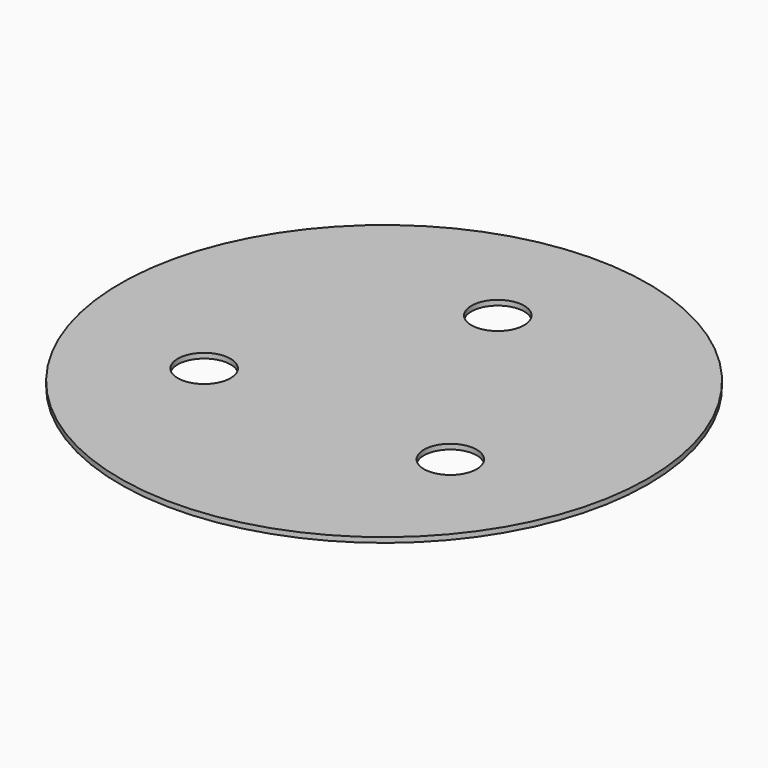
from build123d import *

# Parameters (mm, degrees)
F0_R     = 260
F0_R_2   = 26
F1_DEPTH = 5


with BuildPart() as f1:
    # F0 (on Top) → F1 (new body)
    with BuildSketch(Plane.XY):
        Circle(F0_R)
        with Locations((-121.243557, -70)):
            Circle(F0_R_2, mode=Mode.SUBTRACT)
        with Locations((121.243557, -70)):
            Circle(F0_R_2, mode=Mode.SUBTRACT)
        with Locations((0, 140)):
            Circle(F0_R_2, mode=Mode.SUBTRACT)
    extrude(amount=F1_DEPTH)


solid = f1.part
